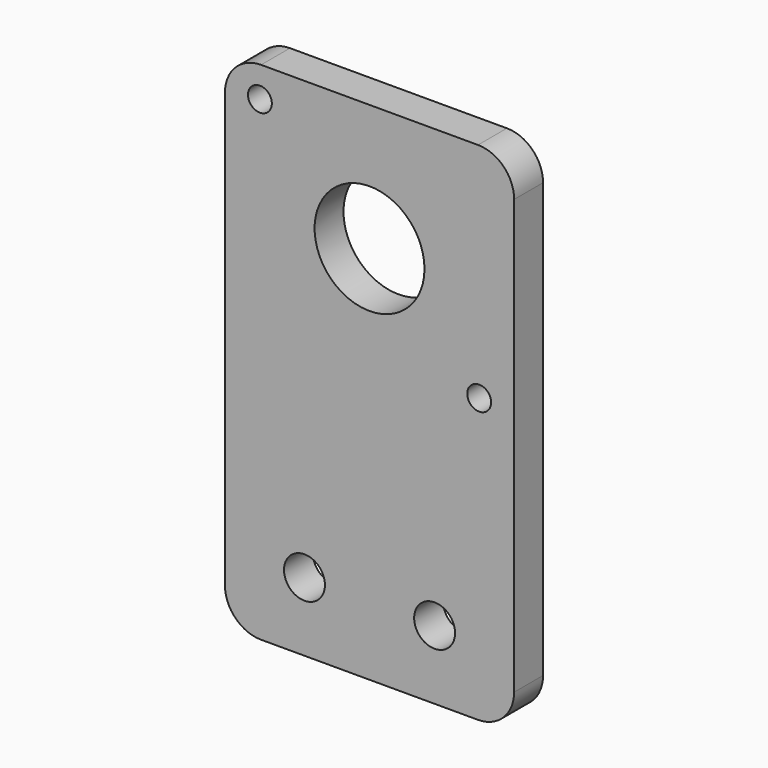
from build123d import *

# Parameters (mm, degrees)
F0_R     = 3.5941
F0_R_2   = 2.0955
F0_R_3   = 9.652
F1_DEPTH = 6.35


with BuildPart() as f1:
    # F0 (on Front) → F1 (new body)
    with BuildSketch(Plane.XZ):
        with BuildLine():
            Line((-19.05, -12.1031), (19.05, -12.1031))
            ThreePointArc((19.05, -12.1031), (23.540128, -10.243228), (25.4, -5.7531))
            Line((25.4, -5.7531), (25.4, 70.4469))
            ThreePointArc((25.4, 70.4469), (23.540128, 74.937028), (19.05, 76.7969))
            Line((19.05, 76.7969), (-19.05, 76.7969))
            ThreePointArc((-19.05, 76.7969), (-23.540128, 74.937028), (-25.4, 70.4469))
            Line((-25.4, 70.4469), (-25.4, -5.7531))
            ThreePointArc((-25.4, -5.7531), (-23.540128, -10.243228), (-19.05, -12.1031))
        make_face()
        with Locations((-11.43, 0)):
            Circle(F0_R, mode=Mode.SUBTRACT)
        with Locations((11.43, 0)):
            Circle(F0_R, mode=Mode.SUBTRACT)
        with Locations((-19.258814, 71.423362)):
            Circle(F0_R_2, mode=Mode.SUBTRACT)
        with Locations((0, 54.5719)):
            Circle(F0_R_3, mode=Mode.SUBTRACT)
        with Locations((19.258814, 37.720438)):
            Circle(F0_R_2, mode=Mode.SUBTRACT)
    extrude(amount=F1_DEPTH)


solid = f1.part
